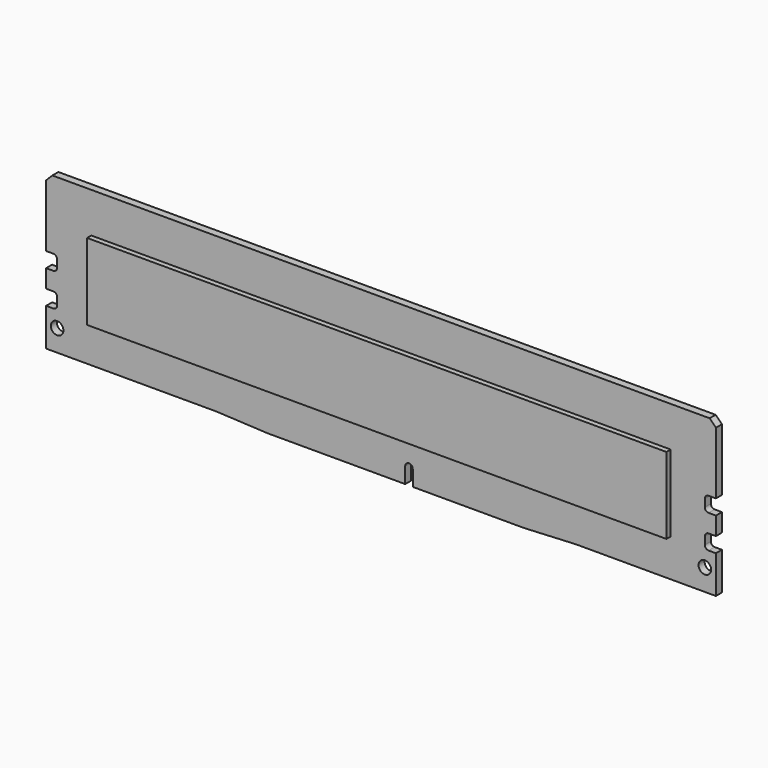
from build123d import *

# Parameters (mm, degrees)
F0_R     = 1.25
F1_DEPTH = 0.75
F2_W     = 115.35
F2_H     = 15.25
F3_DEPTH = 1.8


with BuildPart() as f1:
    # F0 (on Front) → F1 (new body, symmetric)
    with BuildSketch(Plane.XZ):
        with BuildLine():
            Line((-66.675, -7.625), (-66.675, -15.125))
            Line((-66.675, -15.125), (-32.775, -15.125))
            Line((-32.775, -15.125), (-22.575, -15.625))
            Line((-22.575, -15.625), (4.825, -15.625))
            Line((4.825, -15.625), (4.825, -12.475))
            ThreePointArc((4.825, -12.475), (5.575, -11.725), (6.325, -12.475))
            Line((6.325, -12.475), (6.325, -15.625))
            Line((6.325, -15.625), (28.525, -15.625))
            Line((28.525, -15.625), (38.725, -15.125))
            Line((38.725, -15.125), (66.675, -15.125))
            Line((66.675, -15.125), (66.675, -7.625))
            Line((66.675, -7.625), (65.225, -7.625))
            ThreePointArc((65.225, -7.625), (64.69467, -7.40533), (64.475, -6.875))
            Line((64.475, -6.875), (64.475, -5.375))
            ThreePointArc((64.475, -5.375), (64.69467, -4.84467), (65.225, -4.625))
            Line((65.225, -4.625), (66.675, -4.625))
            Line((66.675, -4.625), (66.675, -1.025))
            Line((66.675, -1.025), (65.225, -1.025))
            ThreePointArc((65.225, -1.025), (64.69467, -0.80533), (64.475, -0.275))
            Line((64.475, -0.275), (64.475, 1.225))
            ThreePointArc((64.475, 1.225), (64.69467, 1.75533), (65.225, 1.975))
            Line((65.225, 1.975), (66.675, 1.975))
            Line((66.675, 1.975), (66.675, 14.375))
            Line((66.675, 14.375), (65.425, 15.625))
            Line((65.425, 15.625), (-65.425, 15.625))
            Line((-65.425, 15.625), (-66.675, 14.375))
            Line((-66.675, 14.375), (-66.675, 1.975))
            Line((-66.675, 1.975), (-65.225, 1.975))
            ThreePointArc((-65.225, 1.975), (-64.69467, 1.75533), (-64.475, 1.225))
            Line((-64.475, 1.225), (-64.475, -0.275))
            ThreePointArc((-64.475, -0.275), (-64.69467, -0.80533), (-65.225, -1.025))
            Line((-65.225, -1.025), (-66.675, -1.025))
            Line((-66.675, -1.025), (-66.675, -4.625))
            Line((-66.675, -4.625), (-65.225, -4.625))
            ThreePointArc((-65.225, -4.625), (-64.69467, -4.84467), (-64.475, -5.375))
            Line((-64.475, -5.375), (-64.475, -6.875))
            ThreePointArc((-64.475, -6.875), (-64.69467, -7.40533), (-65.225, -7.625))
            Line((-65.225, -7.625), (-66.675, -7.625))
        make_face()
        with Locations((-64.475, -10.825)):
            Circle(F0_R, mode=Mode.SUBTRACT)
        with Locations((64.475, -10.825)):
            Circle(F0_R, mode=Mode.SUBTRACT)
    extrude(amount=F1_DEPTH, both=True)

    # F2 (on Front) → F3 (join, symmetric)
    with BuildSketch(Plane.XZ):
        Rectangle(F2_W, F2_H)
    extrude(amount=F3_DEPTH, both=True)


solid = f1.part
